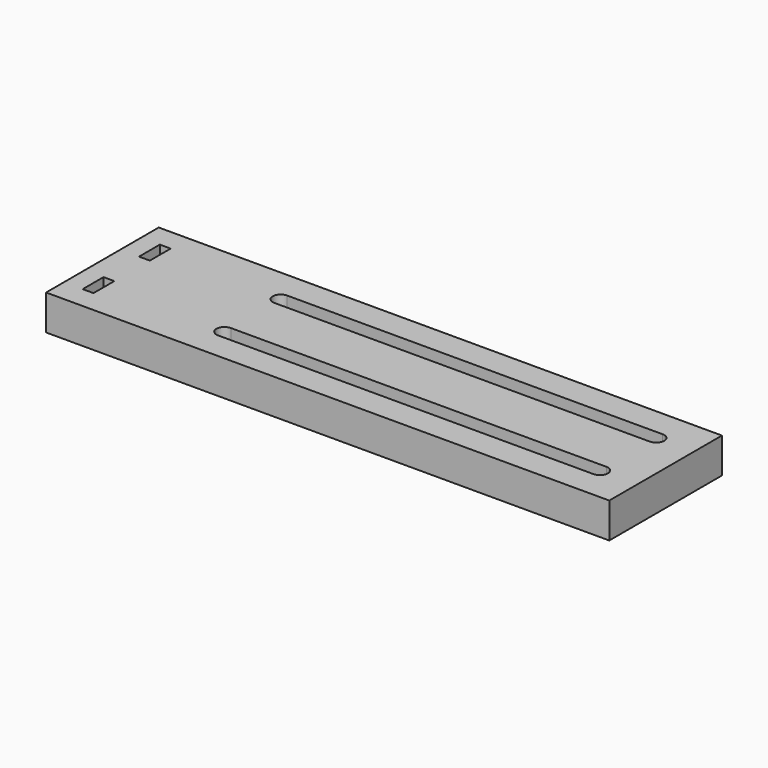
from build123d import *

# Parameters (mm, degrees)
SKETCH_W     = 120
SKETCH_H     = 30
SKETCH_W_2   = 2.3
SKETCH_H_2   = 5.55
PAD_DEPTH    = 7.5
SKETCH001_R  = 1.7
POCKET_DEPTH = 15


with BuildPart() as part:
    # Sketch → Pad (new body)
    with BuildSketch(Plane.XY):
        with Locations((60, 15)):
            Rectangle(SKETCH_W, SKETCH_H)
        with Locations((5.15, 22.525)):
            Rectangle(SKETCH_W_2, SKETCH_H_2, mode=Mode.SUBTRACT)
        with Locations((5.15, 7.525)):
            Rectangle(SKETCH_W_2, SKETCH_H_2, mode=Mode.SUBTRACT)
        with BuildLine():
            ThreePointArc((32, 24.2), (30.3, 22.5), (32, 20.8))
            Line((32, 20.8), (112, 20.8))
            ThreePointArc((112, 20.8), (113.7, 22.5), (112, 24.2))
            Line((32, 24.2), (112, 24.2))
        make_face(mode=Mode.SUBTRACT)
        with BuildLine():
            ThreePointArc((32, 9.2), (30.3, 7.5), (32, 5.8))
            Line((32, 5.8), (112, 5.8))
            ThreePointArc((112, 5.8), (113.7, 7.5), (112, 9.2))
            Line((32, 9.2), (112, 9.2))
        make_face(mode=Mode.SUBTRACT)
    extrude(amount=PAD_DEPTH)

    # Sketch001 (on Face4 of Pad) → Pocket (cut)
    with BuildSketch(Plane(origin=(0, 0, 0), x_dir=(0, -1, 0), z_dir=(-1, 0, 0))):
        with Locations((-22.5, 3.75)):
            Circle(SKETCH001_R)
        with Locations((-7.5, 3.75)):
            Circle(SKETCH001_R)
    extrude(amount=-POCKET_DEPTH, mode=Mode.SUBTRACT)


solid = part.part
